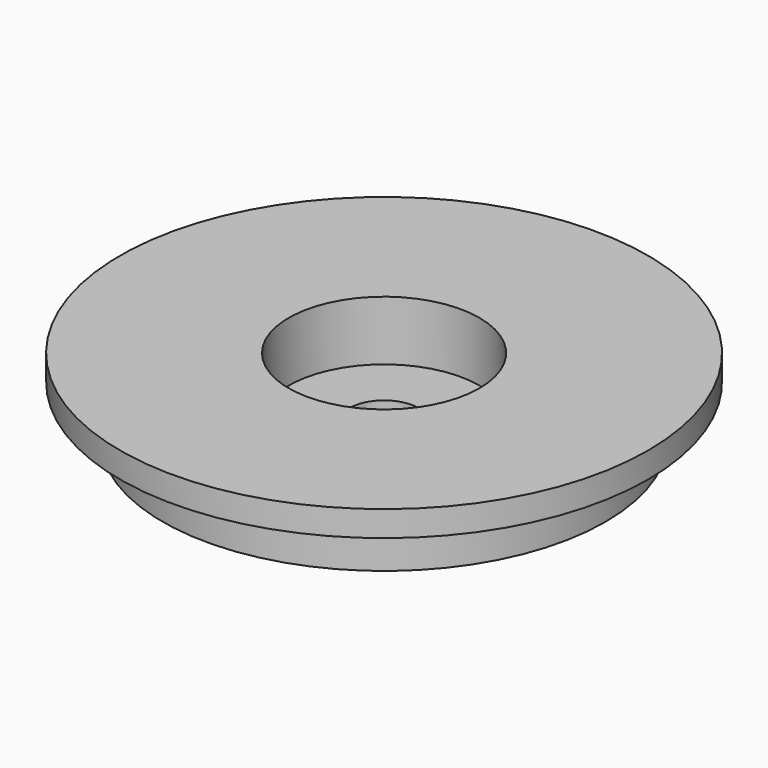
from build123d import *

# Parameters (mm, degrees)
SKETCH_R     = 26
SKETCH_R_2   = 4.05
PAD_DEPTH    = 6
SKETCH001_R  = 31
PAD001_DEPTH = 3
SKETCH002_R  = 11.2
POCKET_DEPTH = 7


with BuildPart() as part:
    # Sketch → Pad (new body)
    with BuildSketch(Plane.XY):
        Circle(SKETCH_R)
        Circle(SKETCH_R_2, mode=Mode.SUBTRACT)
    extrude(amount=PAD_DEPTH)

    # Sketch001 (on Face4 of Pad) → Pad001 (join)
    with BuildSketch(Plane.XY.offset(6)):
        Circle(SKETCH001_R)
    extrude(amount=PAD001_DEPTH)

    # Sketch002 (on Face3 of Pad001) → Pocket (cut)
    with BuildSketch(Plane.XY.offset(9)):
        Circle(SKETCH002_R)
    extrude(amount=-POCKET_DEPTH, mode=Mode.SUBTRACT)


solid = part.part
